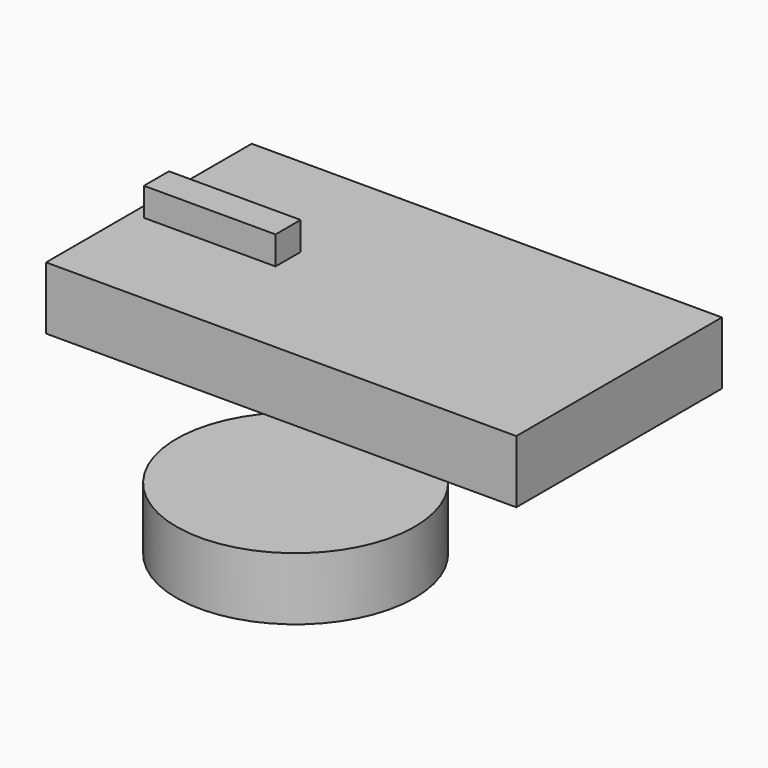
from build123d import *

# Parameters (mm, degrees)
BOX001_W          = 21
BOX001_H          = 5
BOX001_DEPTH      = 12.5
CYLINDER003_R     = 1.5
CYLINDER003_DEPTH = 10
CYLINDER001_R     = 1.5
CYLINDER001_DEPTH = 10
CYLINDER002_R     = 1.5
CYLINDER002_DEPTH = 10
CYLINDER_R        = 1.5
CYLINDER_DEPTH    = 10
BOX_W             = 63.5
BOX_H             = 39.37
BOX_DEPTH         = 2
BOX002_W          = 75
BOX002_H          = 41
BOX002_DEPTH      = 10
CYLINDER004_R     = 19
CYLINDER004_DEPTH = 10


with BuildPart() as cube001:
    # Box001 → Box001 (new body)
    with BuildSketch(Plane(origin=(0, 16, 2), x_dir=(1, 0, 0), z_dir=(0, 0, 1))):
        with Locations((10.5, 2.5)):
            Rectangle(BOX001_W, BOX001_H)
    extrude(amount=BOX001_DEPTH)


with BuildPart() as cylinder003:
    # Cylinder003 → Cylinder003 (new body)
    with BuildSketch(Plane(origin=(58.42, 34.29, -2), x_dir=(1, 0, 0), z_dir=(0, 0, 1))):
        Circle(CYLINDER003_R)
    extrude(amount=CYLINDER003_DEPTH)


with BuildPart() as fusion001:
    # Cylinder001 → Cylinder001 (new body)
    with BuildSketch(Plane(origin=(5.08, 34.29, -2), x_dir=(1, 0, 0), z_dir=(0, 0, 1))):
        Circle(CYLINDER001_R)
    extrude(amount=CYLINDER001_DEPTH)

    # Fusion001: union Cylinder003
    add(cylinder003.part)


with BuildPart() as cylinder002:
    # Cylinder002 → Cylinder002 (new body)
    with BuildSketch(Plane(origin=(58.42, 5.08, -2), x_dir=(1, 0, 0), z_dir=(0, 0, 1))):
        Circle(CYLINDER002_R)
    extrude(amount=CYLINDER002_DEPTH)


with BuildPart() as fusion002:
    # Cylinder → Cylinder (new body)
    with BuildSketch(Plane(origin=(5.08, 5.08, -2), x_dir=(1, 0, 0), z_dir=(0, 0, 1))):
        Circle(CYLINDER_R)
    extrude(amount=CYLINDER_DEPTH)

    # Fusion: union Cylinder002
    add(cylinder002.part)

    # Fusion002: union Fusion001
    add(fusion001.part)


with BuildPart() as cut:
    # Box → Box (new body)
    with BuildSketch(Plane.XY):
        with Locations((31.75, 19.685)):
            Rectangle(BOX_W, BOX_H)
    extrude(amount=BOX_DEPTH)

    # Cut: cut Fusion002
    add(fusion002.part, mode=Mode.SUBTRACT)


with BuildPart() as cube002:
    # Box002 → Box002 (new body)
    with BuildSketch(Plane(origin=(-2, -1, 0), x_dir=(1, 0, 0), z_dir=(0, 0, 1))):
        with Locations((37.5, 20.5)):
            Rectangle(BOX002_W, BOX002_H)
    extrude(amount=BOX002_DEPTH)


with BuildPart() as cylinder004:
    # Cylinder004 → Cylinder004 (new body)
    with BuildSketch(Plane(origin=(21, 20, -32), x_dir=(1, 0, 0), z_dir=(0, 0, 1))):
        Circle(CYLINDER004_R)
    extrude(amount=CYLINDER004_DEPTH)


solid = Compound([cube001.part, cut.part, cube002.part, cylinder004.part])
